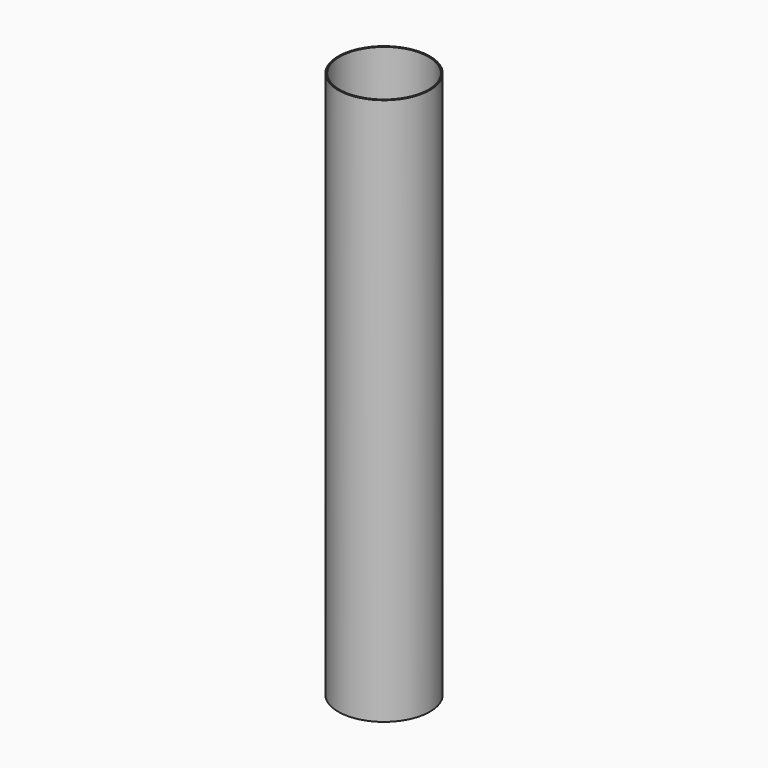
from build123d import *

# Parameters (mm, degrees)
SKETCH_R     = 51.1048
PAD_DEPTH    = 609.6
SKETCH001_R  = 49.53
POCKET_DEPTH = 609.601


with BuildPart() as part:
    # Sketch → Pad (new body)
    with BuildSketch(Plane.XY):
        Circle(SKETCH_R)
    extrude(amount=PAD_DEPTH)

    # Sketch001 (on Face3 of Pad) → Pocket (cut, through all)
    with BuildSketch(Plane.XY.offset(609.6)):
        Circle(SKETCH001_R)
    extrude(amount=-POCKET_DEPTH, mode=Mode.SUBTRACT)


solid = part.part
